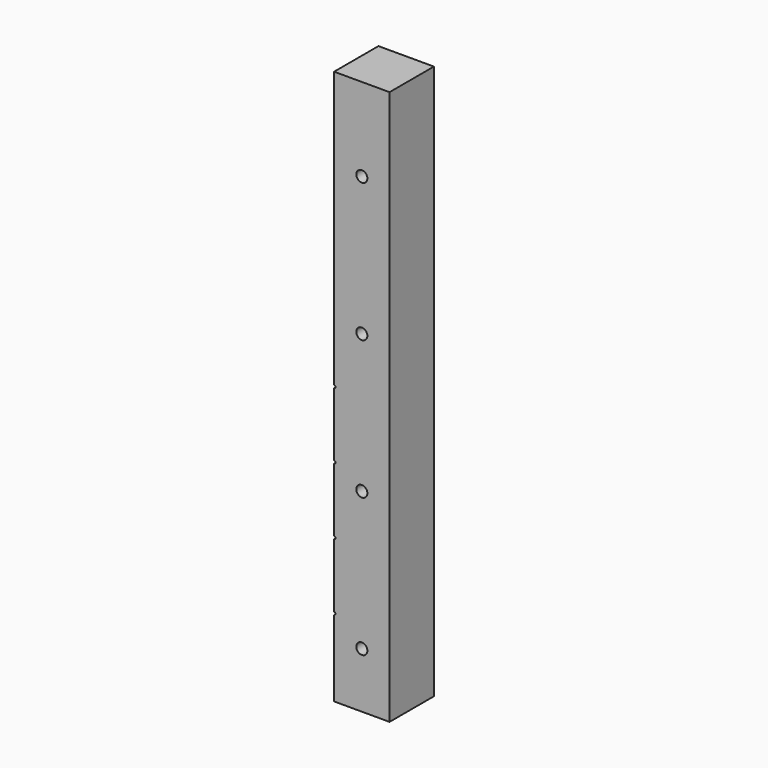
from build123d import *

# Parameters (mm, degrees)
F0_W     = 10
F0_H     = 100
F1_DEPTH = 10
F2_R     = 0.25
F3_DEPTH = 10.001
F4_R     = 1
F5_DEPTH = 10.001


with BuildPart() as f1:
    # F0 (on Front) → F1 (new body)
    with BuildSketch(Plane.XZ):
        with Locations((5, 50)):
            Rectangle(F0_W, F0_H)
    extrude(amount=F1_DEPTH)

    # F2 (on face) → F3 (cut, through all)
    with BuildSketch(Plane.XZ.offset(10)):
        with Locations((0, 50)):
            Circle(F2_R)
        with Locations((0, 38)):
            Circle(F2_R)
        with Locations((0, 26)):
            Circle(F2_R)
        with Locations((0, 14)):
            Circle(F2_R)
    extrude(amount=-F3_DEPTH, mode=Mode.SUBTRACT)

    # F4 (on Front) → F5 (cut, through all)
    with BuildSketch(Plane.XZ):
        with Locations((5, 85)):
            Circle(F4_R)
        with Locations((5, 60)):
            Circle(F4_R)
        with Locations((5, 35)):
            Circle(F4_R)
        with Locations((5, 10)):
            Circle(F4_R)
    extrude(amount=F5_DEPTH, mode=Mode.SUBTRACT)


solid = f1.part
